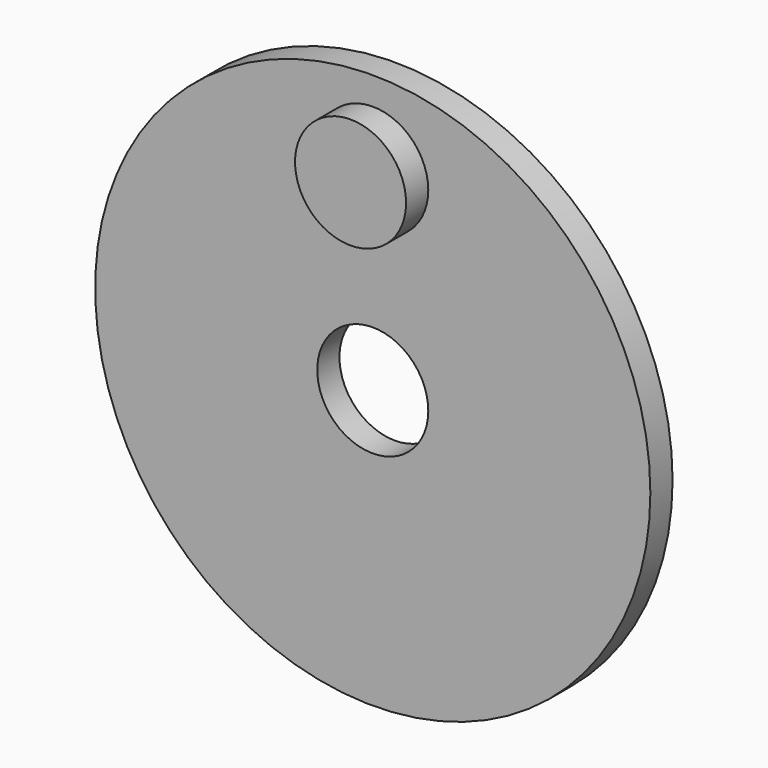
from build123d import *

# Parameters (mm, degrees)
F0_R     = 50
F0_R_2   = 10
F1_DEPTH = 2.5
F2_R     = 10
F3_DEPTH = 7.5


with BuildPart() as f1:
    # F0 (on Front) → F1 (new body, symmetric)
    with BuildSketch(Plane.XZ):
        Circle(F0_R)
        Circle(F0_R_2, mode=Mode.SUBTRACT)
    extrude(amount=F1_DEPTH, both=True)

    # F2 (on Front) → F3 (join)
    with BuildSketch(Plane.XZ):
        with Locations((0, 35)):
            Circle(F2_R)
    extrude(amount=F3_DEPTH)


solid = f1.part
